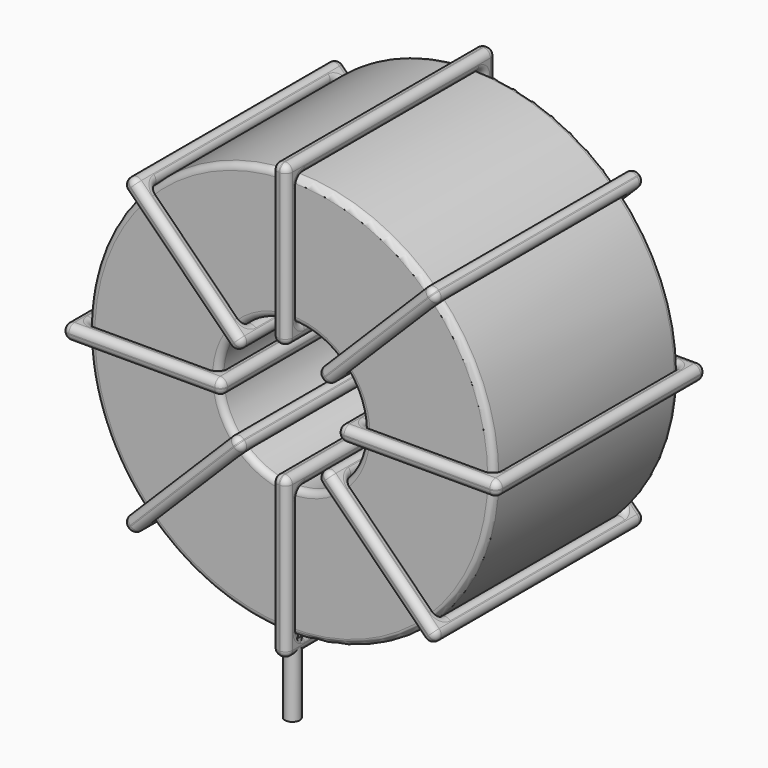
from build123d import *

# Parameters (mm, degrees)
SKETCH001_R       = 0.6
PAD001_DEPTH      = 1.2
PAD001_DEPTH_BACK = 4.7
SKETCH_R          = 16.35
SKETCH_R_2        = 5.85
PAD_DEPTH         = 9.35
FILLET_R          = 0.5
SKETCH003_W       = 12.9
SKETCH003_H       = 21.1
SKETCH003_W_2     = 10.5
SKETCH003_H_2     = 18.7
PAD002_DEPTH      = 0.6
FILLET001_R       = 0.564
SKETCH004_W       = 12.9
SKETCH004_H       = 21.1
SKETCH004_W_2     = 10.5
SKETCH004_H_2     = 18.7
PAD003_DEPTH      = 0.6
FILLET002_R       = 0.564
SKETCH005_W       = 12.9
SKETCH005_H       = 21.1
SKETCH005_W_2     = 10.5
SKETCH005_H_2     = 18.7
PAD004_DEPTH      = 0.6
FILLET003_R       = 0.564
SKETCH006_W       = 12.9
SKETCH006_H       = 21.1
SKETCH006_W_2     = 10.5
SKETCH006_H_2     = 18.7
PAD005_DEPTH      = 0.6
FILLET004_R       = 0.564


with BuildPart() as pad001:
    # Sketch001 → Pad001 (new body, two sides)
    with BuildSketch(Plane.XY.offset(1.7)) as pad001_sk:
        Circle(SKETCH001_R)
        with Locations((0, -18.5)):
            Circle(SKETCH001_R)
    extrude(amount=PAD001_DEPTH)
    extrude(pad001_sk.sketch, amount=-PAD001_DEPTH_BACK)


with BuildPart() as fillet_body:
    # Sketch → Pad (new body, symmetric)
    with BuildSketch(Plane.XZ.offset(9.25)):
        with Locations((0, 19.25)):
            Circle(SKETCH_R)
        with Locations((0, 19.25)):
            Circle(SKETCH_R_2, mode=Mode.SUBTRACT)
    extrude(amount=PAD_DEPTH, both=True)

    # Fillet
    fillet_edges = [fillet_body.edges().sort_by_distance(p)[0] for p in [
        (-5.85, -18.6, 19.25),
        (-16.35, -18.6, 19.25),
        (-16.35, 0.1, 19.25),
    ]]
    fillet(fillet_edges, radius=FILLET_R)


with BuildPart() as fillet001:
    # Sketch003 → Pad002 (new body, symmetric)
    with BuildSketch(Plane(origin=(0, 1.3, 19.25), x_dir=(1, 0, 0), z_dir=(0, 0, -1))):
        with Locations((-11.1, 10.55)):
            Rectangle(SKETCH003_W, SKETCH003_H)
        with Locations((-11.1, 10.55)):
            Rectangle(SKETCH003_W_2, SKETCH003_H_2, mode=Mode.SUBTRACT)
        with Locations((11.1, 10.55)):
            Rectangle(SKETCH003_W, SKETCH003_H)
        with Locations((11.1, 10.55)):
            Rectangle(SKETCH003_W_2, SKETCH003_H_2, mode=Mode.SUBTRACT)
    extrude(amount=PAD002_DEPTH, both=True)

    # Fillet001
    fillet001_edges = [fillet001.edges().sort_by_distance(p)[0] for p in [
        (-5.85, -18.6, 19.25),
        (-5.85, 0.1, 19.25),
        (-5.85, -9.25, 19.85),
        (-5.85, -9.25, 18.65),
        (-17.55, -19.8, 19.25),
        (-4.65, -19.8, 19.25),
        (-11.1, -19.8, 19.85),
        (-11.1, -19.8, 18.65),
        (-4.65, 1.3, 19.25),
        (-4.65, -9.25, 19.85),
        (-4.65, -9.25, 18.65),
        (5.85, -18.6, 19.25),
        (16.35, -18.6, 19.25),
        (11.1, -18.6, 19.85),
        (11.1, -18.6, 18.65),
        (16.35, 0.1, 19.25),
        (16.35, -9.25, 19.85),
        (16.35, -9.25, 18.65),
        (4.65, -19.8, 19.25),
        (17.55, -19.8, 19.25),
        (11.1, -19.8, 19.85),
        (11.1, -19.8, 18.65),
        (17.55, 1.3, 19.25),
        (17.55, -9.25, 19.85),
        (17.55, -9.25, 18.65),
        (-16.35, -18.6, 19.25),
        (-11.1, -18.6, 19.85),
        (-11.1, -18.6, 18.65),
        (5.85, 0.1, 19.25),
        (5.85, -9.25, 19.85),
        (5.85, -9.25, 18.65),
        (11.1, 0.1, 19.85),
        (11.1, 0.1, 18.65),
        (4.65, 1.3, 19.25),
        (11.1, 1.3, 19.85),
        (11.1, 1.3, 18.65),
        (4.65, -9.25, 19.85),
        (4.65, -9.25, 18.65),
        (-17.55, 1.3, 19.25),
        (-11.1, 1.3, 19.85),
        (-11.1, 1.3, 18.65),
        (-17.55, -9.25, 19.85),
        (-17.55, -9.25, 18.65),
        (-16.35, 0.1, 19.25),
        (-16.35, -9.25, 19.85),
        (-16.35, -9.25, 18.65),
        (-11.1, 0.1, 19.85),
        (-11.1, 0.1, 18.65),
    ]]
    fillet(fillet001_edges, radius=FILLET001_R)


with BuildPart() as fillet002:
    # Sketch004 → Pad003 (new body, symmetric)
    with BuildSketch(Plane(origin=(0, 1.3, 19.25), x_dir=(0.707108, 0, 0.707106), z_dir=(0.707106, 0, -0.707108))):
        with Locations((-11.1, 10.55)):
            Rectangle(SKETCH004_W, SKETCH004_H)
        with Locations((-11.1, 10.55)):
            Rectangle(SKETCH004_W_2, SKETCH004_H_2, mode=Mode.SUBTRACT)
        with Locations((11.1, 10.55)):
            Rectangle(SKETCH004_W, SKETCH004_H)
        with Locations((11.1, 10.55)):
            Rectangle(SKETCH004_W_2, SKETCH004_H_2, mode=Mode.SUBTRACT)
    extrude(amount=PAD003_DEPTH, both=True)

    # Fillet002
    fillet002_edges = [fillet002.edges().sort_by_distance(p)[0] for p in [
        (-11.561209, -18.6, 7.688818),
        (-4.136579, 0.1, 15.11343),
        (-8.273158, 0.1, 11.825388),
        (-7.424631, 0.1, 10.976859),
        (-12.409738, -19.8, 6.84029),
        (-3.28805, -19.8, 15.961957),
        (-8.273158, -19.8, 11.825388),
        (-7.424631, -19.8, 10.976859),
        (-3.28805, 1.3, 15.961957),
        (-3.712314, -9.25, 16.386222),
        (-2.863787, -9.25, 15.537693),
        (4.136579, -18.6, 23.38657),
        (11.561209, -18.6, 30.811182),
        (7.424631, -18.6, 27.523141),
        (8.273158, -18.6, 26.674612),
        (11.561209, 0.1, 30.811182),
        (11.136946, -9.25, 31.235447),
        (11.985473, -9.25, 30.386918),
        (3.28805, -19.8, 22.538043),
        (12.409738, -19.8, 31.65971),
        (7.424631, -19.8, 27.523141),
        (8.273158, -19.8, 26.674612),
        (12.409738, 1.3, 31.65971),
        (11.985475, -9.25, 32.083974),
        (12.834002, -9.25, 31.235445),
        (-11.561209, 0.1, 7.688818),
        (-11.985473, -9.25, 8.113082),
        (-11.136946, -9.25, 7.264553),
        (4.136579, 0.1, 23.38657),
        (3.712316, -9.25, 23.810834),
        (4.560843, -9.25, 22.962305),
        (7.424631, 0.1, 27.523141),
        (8.273158, 0.1, 26.674612),
        (3.28805, 1.3, 22.538043),
        (7.424631, 1.3, 27.523141),
        (8.273158, 1.3, 26.674612),
        (2.863787, -9.25, 22.962307),
        (3.712314, -9.25, 22.113778),
        (-12.409738, 1.3, 6.84029),
        (-8.273158, 1.3, 11.825388),
        (-7.424631, 1.3, 10.976859),
        (-12.834002, -9.25, 7.264555),
        (-11.985475, -9.25, 6.416026),
        (-4.136579, -18.6, 15.11343),
        (-8.273158, -18.6, 11.825388),
        (-7.424631, -18.6, 10.976859),
        (-4.560843, -9.25, 15.537695),
        (-3.712316, -9.25, 14.689166),
    ]]
    fillet(fillet002_edges, radius=FILLET002_R)


with BuildPart() as fillet003:
    # Sketch005 → Pad004 (new body, symmetric)
    with BuildSketch(Plane(origin=(0, 1.3, 19.25), x_dir=(0.707108, 0, -0.707106), z_dir=(-0.707106, 0, -0.707108))):
        with Locations((-11.1, 10.55)):
            Rectangle(SKETCH005_W, SKETCH005_H)
        with Locations((-11.1, 10.55)):
            Rectangle(SKETCH005_W_2, SKETCH005_H_2, mode=Mode.SUBTRACT)
        with Locations((11.1, 10.55)):
            Rectangle(SKETCH005_W, SKETCH005_H)
        with Locations((11.1, 10.55)):
            Rectangle(SKETCH005_W_2, SKETCH005_H_2, mode=Mode.SUBTRACT)
    extrude(amount=PAD004_DEPTH, both=True)

    # Fillet003
    fillet003_edges = [fillet003.edges().sort_by_distance(p)[0] for p in [
        (-11.561209, -18.6, 30.811182),
        (-4.136579, 0.1, 23.38657),
        (-7.424631, 0.1, 27.523141),
        (-8.273158, 0.1, 26.674612),
        (-12.409738, -19.8, 31.65971),
        (-12.409738, 1.3, 31.65971),
        (-11.985475, -9.25, 32.083974),
        (-12.834002, -9.25, 31.235445),
        (-3.28805, -19.8, 22.538043),
        (-7.424631, 1.3, 27.523141),
        (-8.273158, 1.3, 26.674612),
        (4.136579, -18.6, 15.11343),
        (11.561209, -18.6, 7.688818),
        (8.273158, -18.6, 11.825388),
        (7.424631, -18.6, 10.976859),
        (11.561209, 0.1, 7.688818),
        (11.985473, -9.25, 8.113082),
        (11.136946, -9.25, 7.264553),
        (3.28805, 1.3, 15.961957),
        (3.28805, -19.8, 15.961957),
        (3.712314, -9.25, 16.386222),
        (2.863787, -9.25, 15.537693),
        (12.409738, 1.3, 6.84029),
        (8.273158, 1.3, 11.825388),
        (7.424631, 1.3, 10.976859),
        (-11.561209, 0.1, 30.811182),
        (-11.136946, -9.25, 31.235447),
        (-11.985473, -9.25, 30.386918),
        (4.136579, 0.1, 15.11343),
        (4.560843, -9.25, 15.537695),
        (3.712316, -9.25, 14.689166),
        (8.273158, 0.1, 11.825388),
        (7.424631, 0.1, 10.976859),
        (12.409738, -19.8, 6.84029),
        (12.834002, -9.25, 7.264555),
        (11.985475, -9.25, 6.416026),
        (8.273158, -19.8, 11.825388),
        (7.424631, -19.8, 10.976859),
        (-3.28805, 1.3, 22.538043),
        (-2.863787, -9.25, 22.962307),
        (-3.712314, -9.25, 22.113778),
        (-7.424631, -19.8, 27.523141),
        (-8.273158, -19.8, 26.674612),
        (-4.136579, -18.6, 23.38657),
        (-7.424631, -18.6, 27.523141),
        (-8.273158, -18.6, 26.674612),
        (-3.712316, -9.25, 23.810834),
        (-4.560843, -9.25, 22.962305),
    ]]
    fillet(fillet003_edges, radius=FILLET003_R)


with BuildPart() as fillet004:
    # Sketch006 → Pad005 (new body, symmetric)
    with BuildSketch(Plane(origin=(0, 1.3, 19.25), x_dir=(0, 0, 1), z_dir=(1, 0, 0))):
        with Locations((-11.1, 10.55)):
            Rectangle(SKETCH006_W, SKETCH006_H)
        with Locations((-11.1, 10.55)):
            Rectangle(SKETCH006_W_2, SKETCH006_H_2, mode=Mode.SUBTRACT)
        with Locations((11.1, 10.55)):
            Rectangle(SKETCH006_W, SKETCH006_H)
        with Locations((11.1, 10.55)):
            Rectangle(SKETCH006_W_2, SKETCH006_H_2, mode=Mode.SUBTRACT)
    extrude(amount=PAD005_DEPTH, both=True)

    # Fillet004
    fillet004_edges = [fillet004.edges().sort_by_distance(p)[0] for p in [
        (0, -18.6, 13.4),
        (0, 0.1, 13.4),
        (-0.6, -9.25, 13.4),
        (0.6, -9.25, 13.4),
        (0, -19.8, 1.7),
        (0, -19.8, 14.6),
        (-0.6, -19.8, 8.15),
        (0.6, -19.8, 8.15),
        (0, 1.3, 14.6),
        (-0.6, -9.25, 14.6),
        (0.6, -9.25, 14.6),
        (0, -18.6, 25.1),
        (0, -18.6, 35.6),
        (-0.6, -18.6, 30.35),
        (0.6, -18.6, 30.35),
        (0, 0.1, 35.6),
        (-0.6, -9.25, 35.6),
        (0.6, -9.25, 35.6),
        (0, -19.8, 23.9),
        (0, -19.8, 36.8),
        (-0.6, -19.8, 30.35),
        (0.6, -19.8, 30.35),
        (0, 1.3, 36.8),
        (-0.6, -9.25, 36.8),
        (0.6, -9.25, 36.8),
        (0, -18.6, 2.9),
        (-0.6, -18.6, 8.15),
        (0.6, -18.6, 8.15),
        (0, 0.1, 25.1),
        (-0.6, -9.25, 25.1),
        (0.6, -9.25, 25.1),
        (-0.6, 0.1, 30.35),
        (0.6, 0.1, 30.35),
        (0, 1.3, 23.9),
        (-0.6, 1.3, 30.35),
        (0.6, 1.3, 30.35),
        (-0.6, -9.25, 23.9),
        (0.6, -9.25, 23.9),
        (0, 1.3, 1.7),
        (-0.6, 1.3, 8.15),
        (0.6, 1.3, 8.15),
        (-0.6, -9.25, 1.7),
        (0.6, -9.25, 1.7),
        (0, 0.1, 2.9),
        (-0.6, -9.25, 2.9),
        (0.6, -9.25, 2.9),
        (-0.6, 0.1, 8.15),
        (0.6, 0.1, 8.15),
    ]]
    fillet(fillet004_edges, radius=FILLET004_R)


solid = Compound([pad001.part, fillet_body.part, fillet001.part, fillet002.part, fillet003.part, fillet004.part])
